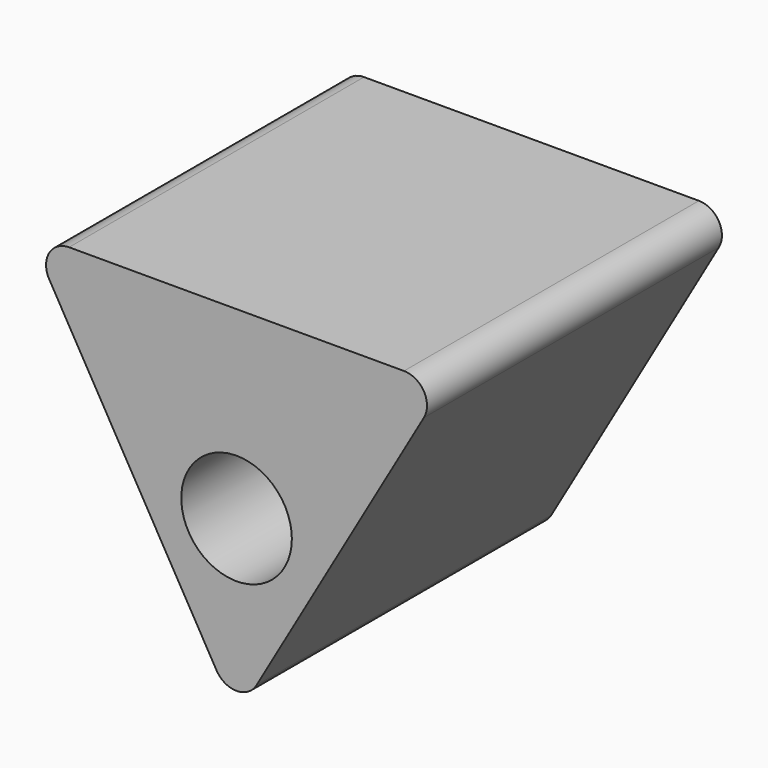
from build123d import *

# Parameters (mm, degrees)
F0_R     = 1.2
F1_DEPTH = 8


with BuildPart() as f1:
    # F0 (on Front) → F1 (new body)
    with BuildSketch(Plane.XZ):
        with BuildLine():
            Line((3.633975, 0), (-3.633975, 0))
            ThreePointArc((-3.633975, 0), (-4.066987, -0.25), (-4.066987, -0.75))
            Line((-4.066987, -0.75), (-0.433013, -7.044229))
            ThreePointArc((-0.433013, -7.044229), (0, -7.294229), (0.433013, -7.044229))
            Line((0.433013, -7.044229), (4.066987, -0.75))
            ThreePointArc((4.066987, -0.75), (4.066987, -0.25), (3.633975, 0))
        make_face()
        with Locations((0, -4)):
            Circle(F0_R, mode=Mode.SUBTRACT)
    extrude(amount=F1_DEPTH)


solid = f1.part
